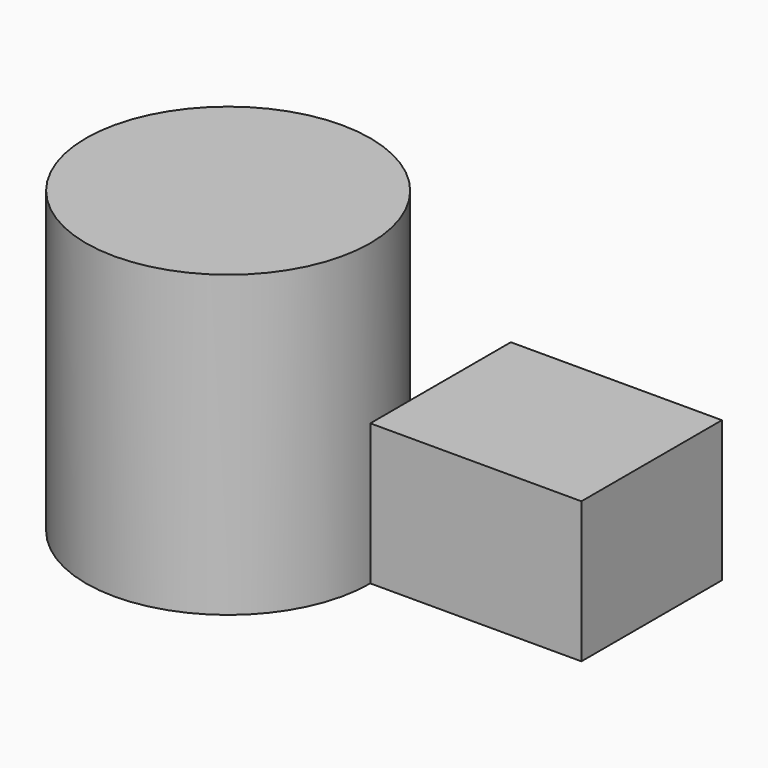
from build123d import *

# Parameters (mm, degrees)
F0_R     = 51.242605
F1_DEPTH = 107.95
F2_W     = 76.081194
F2_H     = 63.307017
F3_DEPTH = 50.8


with BuildPart() as f1:
    # F0 (on Top) → F1 (new body)
    with BuildSketch(Plane.XY):
        with Locations((-51.242605, 0)):
            Circle(F0_R)
    extrude(amount=F1_DEPTH)


with BuildPart() as f3:
    # F2 (on Top) → F3 (new body)
    with BuildSketch(Plane.XY):
        with Locations((38.040597, 31.653508)):
            Rectangle(F2_W, F2_H)
    extrude(amount=F3_DEPTH)


solid = Compound([f1.part, f3.part])
